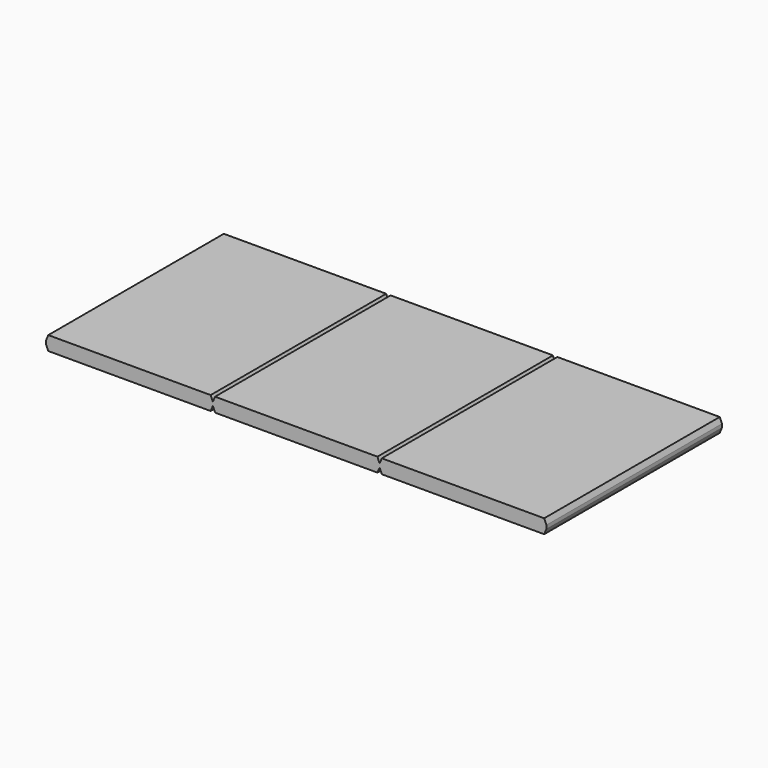
from build123d import *

# Parameters (mm, degrees)
F1_DEPTH = 25


with BuildPart() as f1:
    # F0 (on Front) → F1 (new body)
    with BuildSketch(Plane.XZ):
        Polygon((9.25, 0.8), (0, 0.8), (-9.25, 0.8), (-9.5, 0.2), (-9.5, -0.2), (-9.25, -0.8), (0, -0.8), (9.25, -0.8), (9.5, -0.2), (9.75, -0.8), (19, -0.8), (28.25, -0.8), (28.5, -0.2), (28.75, -0.8), (38, -0.8), (47.25, -0.8), (47.5, -0.2), (47.5, 0.2), (47.25, 0.8), (38, 0.8), (28.75, 0.8), (28.5, 0.2), (28.25, 0.8), (19, 0.8), (9.75, 0.8), (9.5, 0.2), align=None)
    extrude(amount=F1_DEPTH)


solid = f1.part
